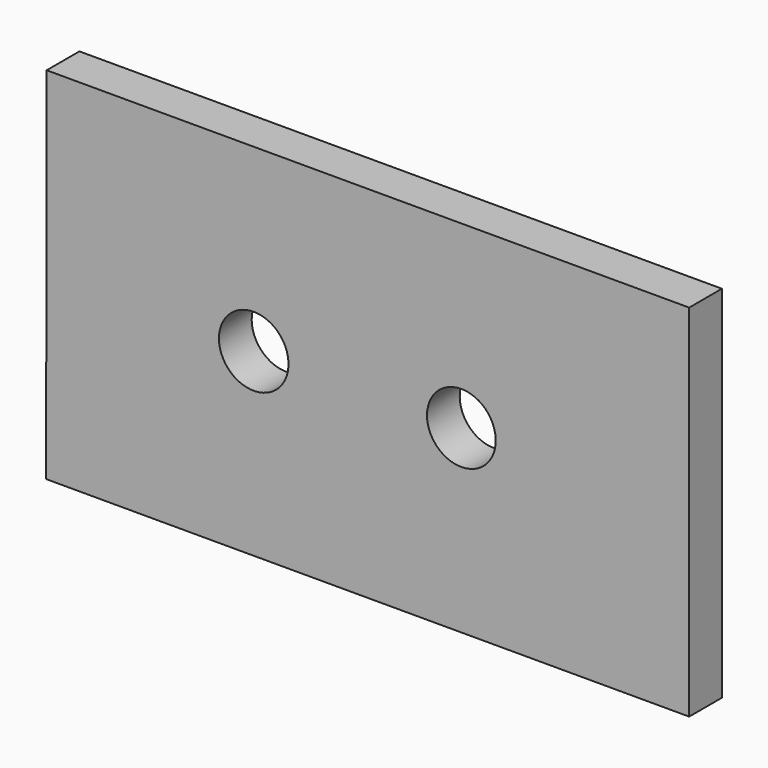
from build123d import *

# Parameters (mm, degrees)
F1_DEPTH = 12.7
F3_D     = 21.59
F5_D     = 21.336


with BuildPart() as f1:
    # F0 (on Front) → F1 (new body)
    with BuildSketch(Plane.XZ):
        Polygon((99.809796, 55.887308), (-99.624716, 55.887308), (-99.808872, -55.887308), (99.809796, -55.887308), align=None)
    extrude(amount=F1_DEPTH)

    # F3 (through all)
    with Locations(Plane.XZ.offset(12.7)):
        with Locations((-35.354935, 0)):
            Hole(F3_D / 2)

    # F5 (through all)
    with Locations(Plane.XZ.offset(12.7)):
        with Locations((29.095007, 0)):
            Hole(F5_D / 2)


solid = f1.part
